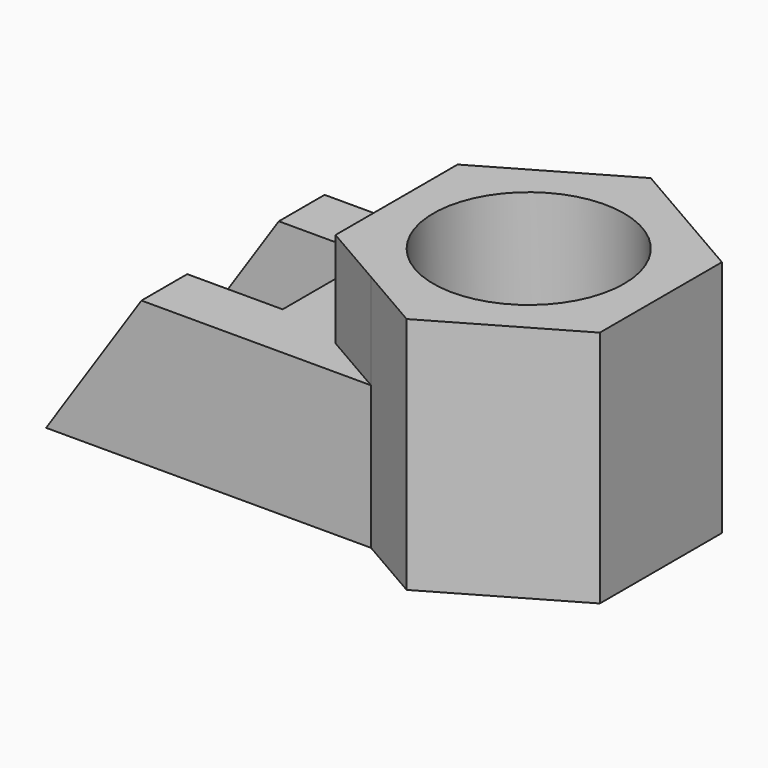
from build123d import *

# Parameters (mm, degrees)
F1_DEPTH  = 30
F2_DEPTH  = 50
F3_R      = 20
F4_DEPTH  = 36
F5_R      = 8
F6_DEPTH  = 14.001
F7_W      = 40
F7_H      = 24
F8_DEPTH  = 20
F10_DEPTH = 56.001


with BuildPart() as f1:
    # F0 (on Top) → F1 (new body)
    with BuildSketch(Plane.XY):
        Polygon((-27.712813, 16), (-13.856406, 24), (-82, 24), (-82, -24), (-13.856406, -24), (-27.712813, -16), align=None)
    extrude(amount=F1_DEPTH)

    # F0 (on Top) → F2 (join)
    with BuildSketch(Plane.XY):
        Polygon((27.712813, 16), (0, 32), (-13.856406, 24), (-27.712813, 16), (-27.712813, -16), (-13.856406, -24), (0, -32), (27.712813, -16), align=None)
    extrude(amount=F2_DEPTH)

    # F3 (on face) → F4 (cut)
    with BuildSketch(Plane.XY.offset(50)):
        Circle(F3_R)
    extrude(amount=-F4_DEPTH, mode=Mode.SUBTRACT)

    # F5 (on face) → F6 (cut, through all)
    with BuildSketch(Plane.XY.offset(14)):
        Circle(F5_R)
    extrude(amount=-F6_DEPTH, mode=Mode.SUBTRACT)

    # F7 (on face) → F8 (cut)
    with BuildSketch(Plane.XY.offset(30)):
        with Locations((-62, 0)):
            Rectangle(F7_W, F7_H)
    extrude(amount=-F8_DEPTH, mode=Mode.SUBTRACT)

    # F9 (on face) → F10 (cut, through all)
    with BuildSketch(Plane.XZ.offset(24)):
        Polygon((-82, 30), (-82, 0), (-62, 30), align=None)
    extrude(amount=-F10_DEPTH, mode=Mode.SUBTRACT)


solid = f1.part
